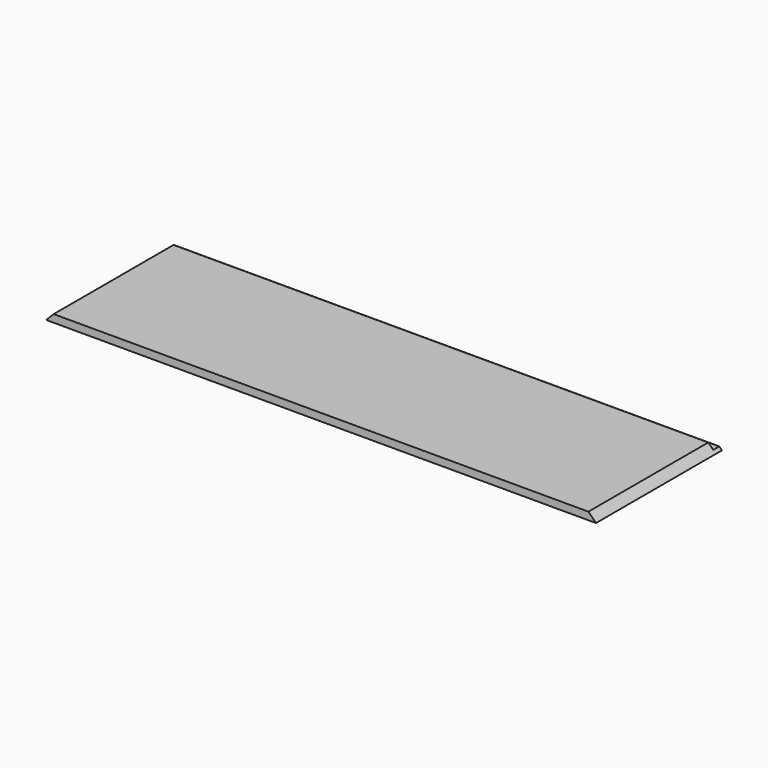
from build123d import *

# Parameters (mm, degrees)
F0_W     = 1450
F0_H     = 415
F1_DEPTH = 20
F2_W     = 20
F2_H     = 13
F3_DEPTH = 1450
F5_DEPTH = 510


with BuildPart() as f1:
    # F0 (on Top) → F1 (new body)
    with BuildSketch(Plane.XY):
        Rectangle(F0_W, F0_H)
    extrude(amount=F1_DEPTH)

    # F2 (on face) → F3 (cut)
    with BuildSketch(Plane.YZ.offset(725)):
        with Locations((197.5, 13.5)):
            Rectangle(F2_W, F2_H)
    extrude(amount=-F3_DEPTH, mode=Mode.SUBTRACT)

    # F4 (on face) → F5 (cut)
    with BuildSketch(Plane.XZ.offset(207.5)):
        Polygon((725, 0), (725, 20), (705, 20), align=None)
        Polygon((-725, 20), (-725, 0), (-705, 20), align=None)
    extrude(amount=-F5_DEPTH, mode=Mode.SUBTRACT)


solid = f1.part
